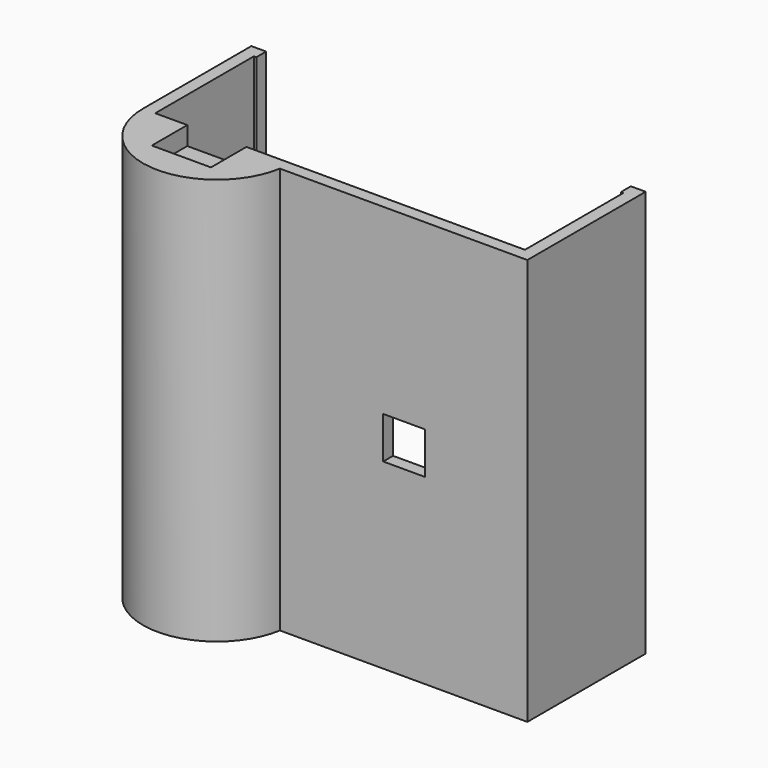
from build123d import *

# Parameters (mm, degrees)
F1_W      = 74
F1_H      = 2.5
F2_DEPTH  = 2.5
F3_DEPTH  = 80
F4_W      = 12
F4_H      = 12
F5_DEPTH  = 3.75
F6_W      = 8.5
F6_H      = 8.5
F7_DEPTH  = 2.5
F9_DEPTH  = 2.5
F10_DEPTH = 7.62
F11_DEPTH = 5.588


with BuildPart() as f2:
    # F1 (on Top) → F2 (new body)
    with BuildSketch(Plane.XY):
        Polygon((37.5, -12.5), (37.5, 12.5), (37, 12.5), (-37, 12.5), (-37.5, 12.5), (-37.5, -12.5), (-12.5, -12.5), align=None)
        with BuildLine():
            Line((37, 12.5), (37.5, 12.5))
            Line((37.5, 12.5), (37.5, -12.5))
            Line((37.5, -12.5), (-12.5, -12.5))
            ThreePointArc((-12.5, -12.5), (-25, -25), (-37.5, -12.5))
            Line((-37.5, -12.5), (-37.5, 12.5))
            Line((-37.5, 12.5), (-37, 12.5))
            Line((-37, 12.5), (-37, 15))
            Line((-37, 15), (-40, 15))
            Line((-40, 15), (-40, -12.5))
            ThreePointArc((-40, -12.5), (-26.2543939042, -27.4474578418), (-10.2098005423, -15))
            Line((-10.2098005423, -15), (40, -15))
            Line((40, -15), (40, 15))
            Line((40, 15), (37, 15))
            Line((37, 15), (37, 12.5))
        make_face()
        with Locations((0, 13.75)):
            Rectangle(F1_W, F1_H)
        with BuildLine():
            ThreePointArc((-37.5, -12.5), (-25, -25), (-12.5, -12.5))
            Line((-12.5, -12.5), (-37.5, -12.5))
        make_face()
    extrude(amount=-F2_DEPTH)

    # F1 (on Top) → F3 (join)
    with BuildSketch(Plane.XY):
        with BuildLine():
            Line((37, 12.5), (37.5, 12.5))
            Line((37.5, 12.5), (37.5, -12.5))
            Line((37.5, -12.5), (-12.5, -12.5))
            ThreePointArc((-12.5, -12.5), (-25, -25), (-37.5, -12.5))
            Line((-37.5, -12.5), (-37.5, 12.5))
            Line((-37.5, 12.5), (-37, 12.5))
            Line((-37, 12.5), (-37, 15))
            Line((-37, 15), (-40, 15))
            Line((-40, 15), (-40, -12.5))
            ThreePointArc((-40, -12.5), (-26.2543939042, -27.4474578418), (-10.2098005423, -15))
            Line((-10.2098005423, -15), (40, -15))
            Line((40, -15), (40, 15))
            Line((40, 15), (37, 15))
            Line((37, 15), (37, 12.5))
        make_face()
        with BuildLine():
            ThreePointArc((-37.5, -12.5), (-25, -25), (-12.5, -12.5))
            Line((-12.5, -12.5), (-37.5, -12.5))
        make_face()
    extrude(amount=F3_DEPTH)

    # F4 (on face) → F5 (cut)
    with BuildSketch(Plane.XY.offset(80)):
        with Locations((-25, -15.5)):
            Rectangle(F4_W, F4_H)
    extrude(amount=-F5_DEPTH, mode=Mode.SUBTRACT)

    # F6 (on face) → F7 (cut, through all)
    with BuildSketch(Plane.XZ.offset(15)):
        with Locations((15, 38.75)):
            Rectangle(F6_W, F6_H)
    extrude(amount=-F7_DEPTH, mode=Mode.SUBTRACT)

    # F8 (on face) → F9 (cut, through all)
    with BuildSketch(Plane.XY):
        with BuildLine():
            Line((16.717254696, -3.1138677411), (13.282745304, -3.1138677411))
            ThreePointArc((13.282745304, -3.1138677411), (15, -3.556), (16.717254696, -3.1138677411))
        make_face()
        with BuildLine():
            ThreePointArc((18.556, 0), (13.191882429, 3.0620004653), (13.282745304, -3.1138677411))
            Line((13.282745304, -3.1138677411), (16.717254696, -3.1138677411))
            ThreePointArc((16.717254696, -3.1138677411), (18.0620004653, -1.808117571), (18.556, 0))
        make_face()
    extrude(amount=-F9_DEPTH, mode=Mode.SUBTRACT)

    # F8 (on face) → F10 (join)
    with BuildSketch(Plane.XY):
        Polygon((15, -6.5991135768), (9.285, -3.2995567884), (9.285, 3.2995567884), (9.285, 9.1138677411), (5, 9.1138677411), (5, -9.1138677411), (25, -9.1138677411), (25, 9.1138677411), (20.715, 9.1138677411), (20.715, 3.2995567884), (20.715, -3.2995567884), align=None)
        Polygon((19, 4.2897125001), (20.715, 3.2995567884), (20.715, 9.1138677411), (19, 9.1138677411), align=None)
        with BuildLine():
            Line((9.285, 3.2995567884), (9.285, -3.2995567884))
            Line((9.285, -3.2995567884), (15, -6.5991135768))
            Line((15, -6.5991135768), (20.715, -3.2995567884))
            Line((20.715, -3.2995567884), (20.715, 3.2995567884))
            Line((20.715, 3.2995567884), (19, 4.2897125001))
            Line((19, 4.2897125001), (19, 3.1138677411))
            Line((19, 3.1138677411), (19, -3.1138677411))
            Line((19, -3.1138677411), (16.717254696, -3.1138677411))
            ThreePointArc((16.717254696, -3.1138677411), (15, -3.556), (13.282745304, -3.1138677411))
            Line((13.282745304, -3.1138677411), (11, -3.1138677411))
            Line((11, -3.1138677411), (11, 3.1138677411))
            Line((11, 3.1138677411), (11, 4.2897125001))
            Line((11, 4.2897125001), (9.285, 3.2995567884))
        make_face()
        Polygon((9.285, 9.1138677411), (9.285, 3.2995567884), (11, 4.2897125001), (11, 9.1138677411), align=None)
    extrude(amount=F10_DEPTH)

    # F8 (on face) → F11 (cut)
    with BuildSketch(Plane.XY):
        with BuildLine():
            Line((9.285, 3.2995567884), (9.285, -3.2995567884))
            Line((9.285, -3.2995567884), (15, -6.5991135768))
            Line((15, -6.5991135768), (20.715, -3.2995567884))
            Line((20.715, -3.2995567884), (20.715, 3.2995567884))
            Line((20.715, 3.2995567884), (19, 4.2897125001))
            Line((19, 4.2897125001), (19, 3.1138677411))
            Line((19, 3.1138677411), (19, -3.1138677411))
            Line((19, -3.1138677411), (16.717254696, -3.1138677411))
            ThreePointArc((16.717254696, -3.1138677411), (15, -3.556), (13.282745304, -3.1138677411))
            Line((13.282745304, -3.1138677411), (11, -3.1138677411))
            Line((11, -3.1138677411), (11, 3.1138677411))
            Line((11, 3.1138677411), (11, 4.2897125001))
            Line((11, 4.2897125001), (9.285, 3.2995567884))
        make_face()
        Polygon((19, 4.2897125001), (20.715, 3.2995567884), (20.715, 9.1138677411), (19, 9.1138677411), align=None)
        Polygon((9.285, 9.1138677411), (9.285, 3.2995567884), (11, 4.2897125001), (11, 9.1138677411), align=None)
    extrude(amount=F11_DEPTH, mode=Mode.SUBTRACT)


solid = f2.part
